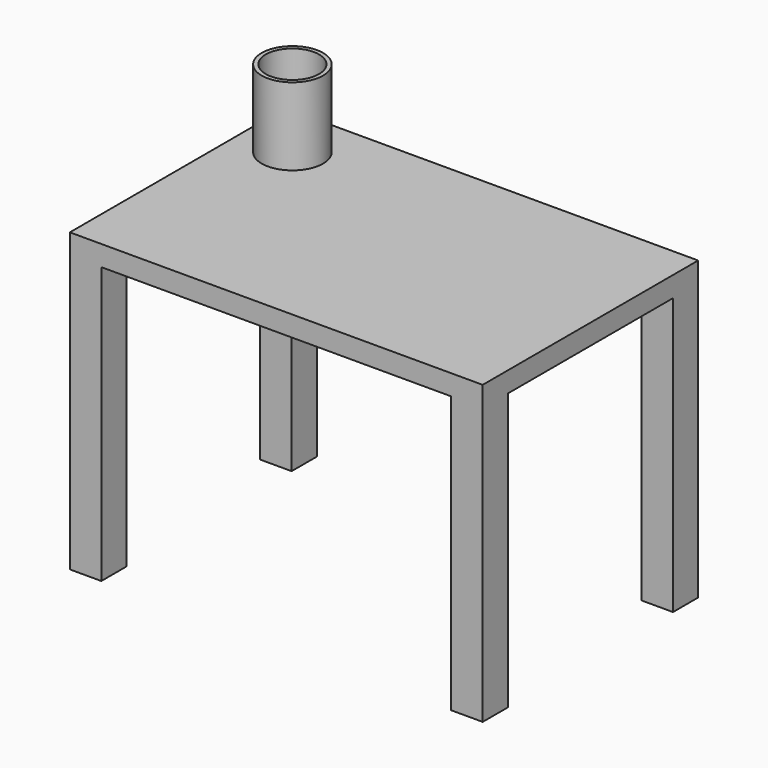
from build123d import *

# Parameters (mm, degrees)
F0_W     = 40.4834784567
F0_H     = 26.4106485993
F1_DEPTH = 2
F2_W     = 3.0844565481
F2_H     = 3.0844546854
F3_DEPTH = 29.1
F4_R     = 3.0112955683
F5_DEPTH = 9.6
F6_T     = -0.4


with BuildPart() as f1:
    # F0 (on Top) → F1 (new body)
    with BuildSketch(Plane.XY):
        Rectangle(F0_W, F0_H)
    extrude(amount=F1_DEPTH)

    # F2 (on face) → F3 (join)
    with BuildSketch(Plane.XY.offset(2)):
        with Locations((-18.6995109543, 11.6630969569)):
            Rectangle(F2_W, F2_H)
        with Locations((18.6995109543, 11.6630969569)):
            Rectangle(F2_W, F2_H)
        with Locations((18.6995109543, -11.6630969569)):
            Rectangle(F2_W, F2_H)
        with Locations((-18.6995109543, -11.6630969569)):
            Rectangle(F2_W, F2_H)
    extrude(amount=-F3_DEPTH)

    # F4 (on Top) → F5 (join)
    with BuildSketch(Plane.XY):
        with Locations((-15.2294989675, 7.8075276688)):
            Circle(F4_R)
    extrude(amount=F5_DEPTH)

    # F6
    f6_openings = [f1.faces().sort_by_distance(p)[0] for p in [
        (-15.229499, 7.807528, 9.6),
    ]]
    offset(amount=F6_T, openings=f6_openings, kind=Kind.INTERSECTION)


solid = f1.part
